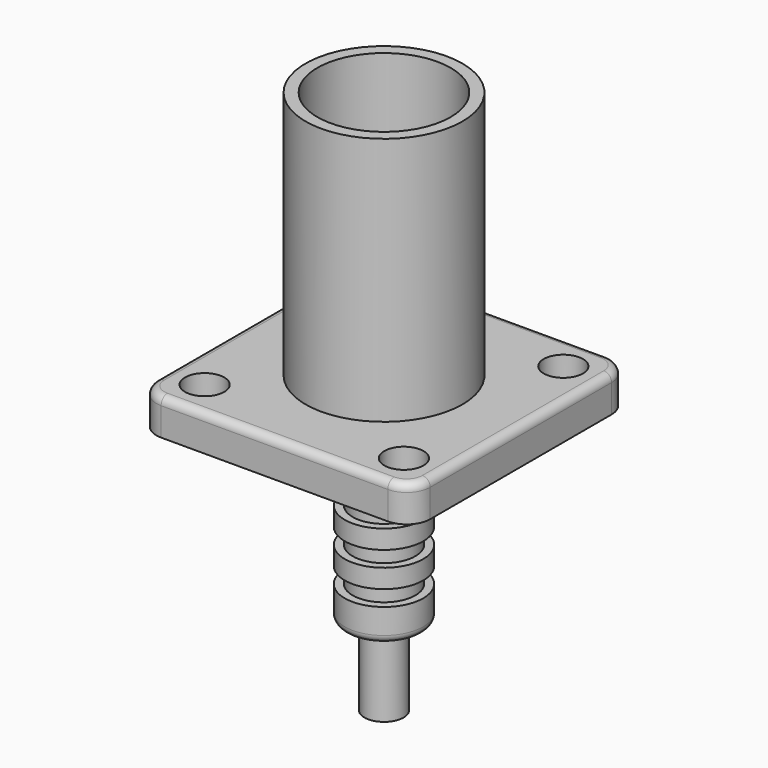
from build123d import *

# Parameters (mm, degrees)
F0_R      = 1.25
F1_DEPTH  = 2.29
F2_R      = 0.5
F3_R      = 5
F3_R_2    = 4.25
F4_DEPTH  = 15.88
F5_R      = 4
F6_DEPTH  = 1.5
F7_R      = 2.5
F8_DEPTH  = 10
F9_R      = 0.5
F12_R     = 1.25
F12_R_2   = 0.75
F13_DEPTH = 5


with BuildPart() as f1:
    # F0 (on Top) → F1 (new body)
    with BuildSketch(Plane.XY):
        with BuildLine():
            Line((-7.225, -8.725), (7.225, -8.725))
            ThreePointArc((7.225, -8.725), (8.28566, -8.28566), (8.725, -7.225))
            Line((8.725, -7.225), (8.725, 7.225))
            ThreePointArc((8.725, 7.225), (8.28566, 8.28566), (7.225, 8.725))
            Line((7.225, 8.725), (-7.225, 8.725))
            ThreePointArc((-7.225, 8.725), (-8.28566, 8.28566), (-8.725, 7.225))
            Line((-8.725, 7.225), (-8.725, -7.225))
            ThreePointArc((-8.725, -7.225), (-8.28566, -8.28566), (-7.225, -8.725))
        make_face()
        with Locations((-6.35, -6.35)):
            Circle(F0_R, mode=Mode.SUBTRACT)
        with Locations((6.35, -6.35)):
            Circle(F0_R, mode=Mode.SUBTRACT)
        with Locations((-6.35, 6.35)):
            Circle(F0_R, mode=Mode.SUBTRACT)
        with Locations((6.35, 6.35)):
            Circle(F0_R, mode=Mode.SUBTRACT)
    extrude(amount=F1_DEPTH)

    # F2
    f2_edges = [f1.edges().sort_by_distance(p)[0] for p in [
        (0, -8.725, 2.29),
    ]]
    fillet(f2_edges, radius=F2_R)

    # F3 (on face) → F4 (join)
    with BuildSketch(Plane.XY.offset(2.29)):
        Circle(F3_R)
        Circle(F3_R_2, mode=Mode.SUBTRACT)
    extrude(amount=F4_DEPTH)

    # F5 (on face) → F6 (join)
    with BuildSketch(Plane(origin=(0, 0, 0), x_dir=(1, 0, 0), z_dir=(0, 0, -1))):
        Circle(F5_R)
    extrude(amount=F6_DEPTH)

    # F7 (on face) → F8 (join)
    with BuildSketch(Plane(origin=(0, 0, -1.5), x_dir=(1, 0, 0), z_dir=(0, 0, -1))):
        Circle(F7_R)
    extrude(amount=F8_DEPTH)

    # F9
    f9_edges = [f1.edges().sort_by_distance(p)[0] for p in [
        (-4, 0, 0),
        (-2.5, 0, -11.5),
    ]]
    fillet(f9_edges, radius=F9_R)

    # F10 (on Right) → F11 (revolve, cut)
    with BuildSketch(Plane.YZ):
        Polygon((-2, -5), (-2, -4), (-6, -4), (-6, -9.4), (-2, -9.4), (-2, -8.4), (-3.5, -8.4), (-3.5, -7.2), (-2, -7.2), (-2, -6.2), (-3.5, -6.2), (-3.5, -5), align=None)
    revolve(axis=Axis((0, 0, -7.479729), (0, 0, -1)), mode=Mode.SUBTRACT)

    # F12 (on face) → F13 (join)
    with BuildSketch(Plane(origin=(0, 0, -11.5), x_dir=(1, 0, 0), z_dir=(0, 0, -1))):
        Circle(F12_R)
        Circle(F12_R_2, mode=Mode.SUBTRACT)
    extrude(amount=F13_DEPTH)


solid = f1.part
